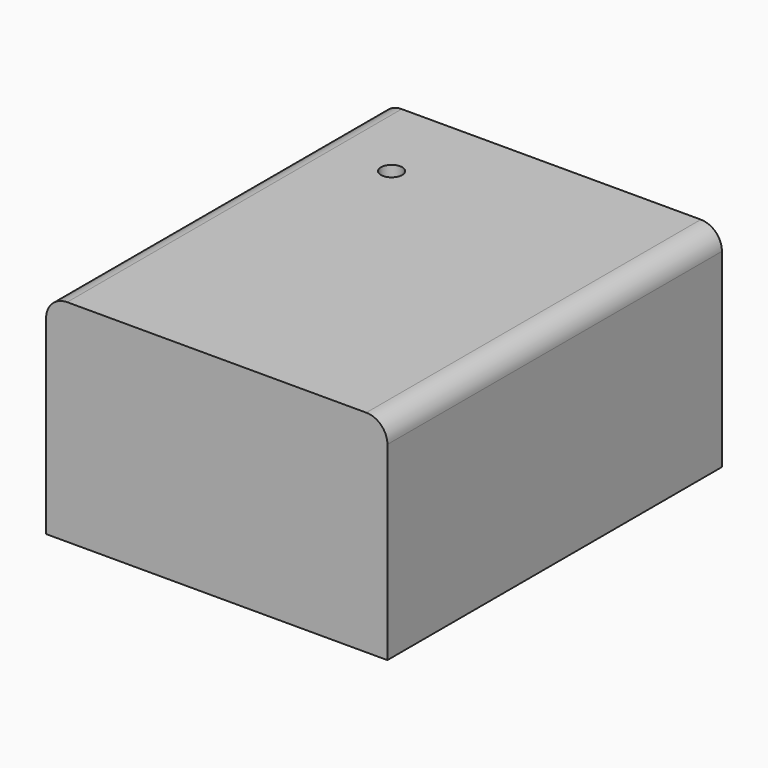
from build123d import *

# Parameters (mm, degrees)
F0_W     = 82.1722075343
F0_H     = 100.6745547056
F1_DEPTH = 50.8
F3_D     = 5.1054
F3_DEPTH = 17.145
F3_TIP   = 1.5338169022
F4_R     = 5.08


with BuildPart() as f1:
    # F0 (on Top) → F1 (new body)
    with BuildSketch(Plane.XY):
        with Locations((4.8976801336, 2.1767504513)):
            Rectangle(F0_W, F0_H)
    extrude(amount=F1_DEPTH)

    # F3
    with Locations(Plane.XY.offset(50.8)):
        with Locations((-16.8170183897, 31.6028743982)):
            Hole(F3_D / 2, depth=F3_DEPTH)
            with Locations((0, 0, -(F3_DEPTH + F3_TIP / 2))):  # 118° drill point
                Cone(0, F3_D / 2, F3_TIP, mode=Mode.SUBTRACT)

    # F4
    f4_edges = [f1.edges().sort_by_distance(p)[0] for p in [
        (45.983784, 2.17675, 50.8),
        (-36.188424, 2.17675, 50.8),
    ]]
    fillet(f4_edges, radius=F4_R)


solid = f1.part
